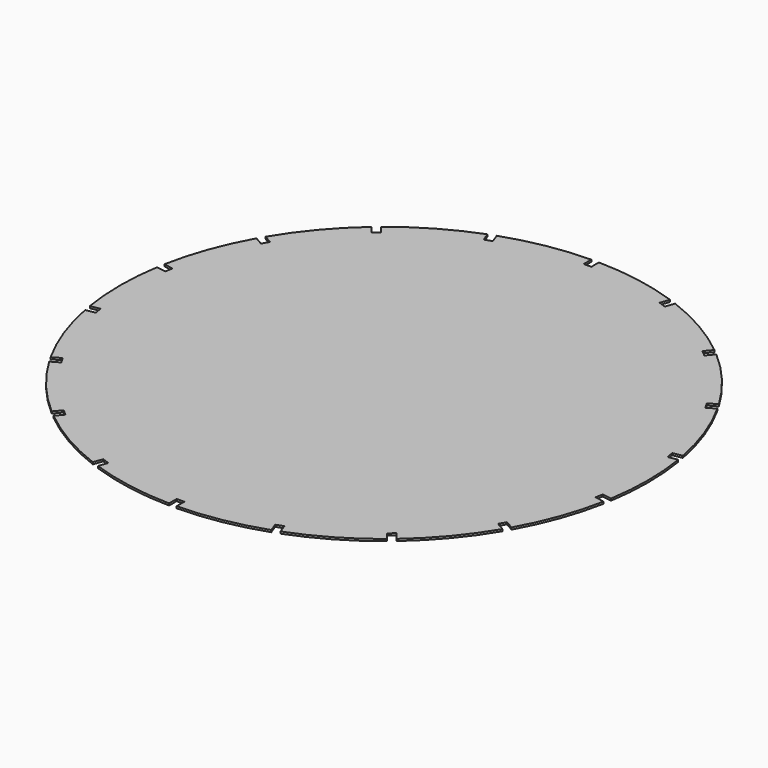
from build123d import *

# Parameters (mm, degrees)
F1_DEPTH = 3


with BuildPart() as f1:
    # F0 (on Top) → F1 (new body)
    with BuildSketch(Plane.XY):
        with BuildLine():
            Line((-5.75, 385.5), (-5.75, 399.95867))
            ThreePointArc((-5.75, 399.95867), (-69.459271, 393.923101), (-131.390689, 377.804826))
            Line((-131.390689, 377.804826), (-126.445533, 364.218121))
            Line((-126.445533, 364.218121), (-137.251998, 360.284889))
            Line((-137.251998, 360.284889), (-142.197154, 373.871595))
            ThreePointArc((-142.197154, 373.871595), (-200, 346.410162), (-252.683722, 310.082145))
            Line((-252.683722, 310.082145), (-243.389868, 299.006162))
            Line((-243.389868, 299.006162), (-252.199379, 291.614104))
            Line((-252.199379, 291.614104), (-261.493233, 302.690088))
            ThreePointArc((-261.493233, 302.690088), (-306.417777, 257.115044), (-343.499368, 204.958981))
            Line((-343.499368, 204.958981), (-330.977793, 197.729646))
            Line((-330.977793, 197.729646), (-336.727793, 187.770354))
            Line((-336.727793, 187.770354), (-349.249368, 194.999689))
            ThreePointArc((-349.249368, 194.999689), (-375.877048, 136.808057), (-392.883922, 75.114739))
            Line((-392.883922, 75.114739), (-378.644912, 72.604017))
            Line((-378.644912, 72.604017), (-380.641866, 61.278728))
            Line((-380.641866, 61.278728), (-394.880876, 63.78945))
            ThreePointArc((-394.880876, 63.78945), (-400, 0), (-394.880876, -63.78945))
            Line((-394.880876, -63.78945), (-380.641866, -61.278728))
            Line((-380.641866, -61.278728), (-378.644912, -72.604017))
            Line((-378.644912, -72.604017), (-392.883922, -75.114739))
            ThreePointArc((-392.883922, -75.114739), (-375.877048, -136.808057), (-349.249368, -194.999689))
            Line((-349.249368, -194.999689), (-336.727793, -187.770354))
            Line((-336.727793, -187.770354), (-330.977793, -197.729646))
            Line((-330.977793, -197.729646), (-343.499368, -204.958981))
            ThreePointArc((-343.499368, -204.958981), (-306.417777, -257.115044), (-261.493233, -302.690088))
            Line((-261.493233, -302.690088), (-252.199379, -291.614104))
            Line((-252.199379, -291.614104), (-243.389868, -299.006162))
            Line((-243.389868, -299.006162), (-252.683722, -310.082145))
            ThreePointArc((-252.683722, -310.082145), (-200, -346.410162), (-142.197154, -373.871595))
            Line((-142.197154, -373.871595), (-137.251998, -360.284889))
            Line((-137.251998, -360.284889), (-126.445533, -364.218121))
            Line((-126.445533, -364.218121), (-131.390689, -377.804826))
            ThreePointArc((-131.390689, -377.804826), (-69.459271, -393.923101), (-5.75, -399.95867))
            Line((-5.75, -399.95867), (-5.75, -385.5))
            Line((-5.75, -385.5), (5.75, -385.5))
            Line((5.75, -385.5), (5.75, -399.95867))
            ThreePointArc((5.75, -399.95867), (69.459271, -393.923101), (131.390689, -377.804826))
            Line((131.390689, -377.804826), (126.445533, -364.218121))
            Line((126.445533, -364.218121), (137.251998, -360.284889))
            Line((137.251998, -360.284889), (142.197154, -373.871595))
            ThreePointArc((142.197154, -373.871595), (200, -346.410162), (252.683722, -310.082145))
            Line((252.683722, -310.082145), (243.389868, -299.006162))
            Line((243.389868, -299.006162), (252.199379, -291.614104))
            Line((252.199379, -291.614104), (261.493233, -302.690088))
            ThreePointArc((261.493233, -302.690088), (306.417777, -257.115044), (343.499368, -204.958981))
            Line((343.499368, -204.958981), (330.977793, -197.729646))
            Line((330.977793, -197.729646), (336.727793, -187.770354))
            Line((336.727793, -187.770354), (349.249368, -194.999689))
            ThreePointArc((349.249368, -194.999689), (375.877048, -136.808057), (392.883922, -75.114739))
            Line((392.883922, -75.114739), (378.644912, -72.604017))
            Line((378.644912, -72.604017), (380.641866, -61.278728))
            Line((380.641866, -61.278728), (394.880876, -63.78945))
            ThreePointArc((394.880876, -63.78945), (400, 0), (394.880876, 63.78945))
            Line((394.880876, 63.78945), (380.641866, 61.278728))
            Line((380.641866, 61.278728), (378.644912, 72.604017))
            Line((378.644912, 72.604017), (392.883922, 75.114739))
            ThreePointArc((392.883922, 75.114739), (375.877048, 136.808057), (349.249368, 194.999689))
            Line((349.249368, 194.999689), (336.727793, 187.770354))
            Line((336.727793, 187.770354), (330.977793, 197.729646))
            Line((330.977793, 197.729646), (343.499368, 204.958981))
            ThreePointArc((343.499368, 204.958981), (306.417777, 257.115044), (261.493233, 302.690088))
            Line((261.493233, 302.690088), (252.199379, 291.614104))
            Line((252.199379, 291.614104), (243.389868, 299.006162))
            Line((243.389868, 299.006162), (252.683722, 310.082145))
            ThreePointArc((252.683722, 310.082145), (200, 346.410162), (142.197154, 373.871595))
            Line((142.197154, 373.871595), (137.251998, 360.284889))
            Line((137.251998, 360.284889), (126.445533, 364.218121))
            Line((126.445533, 364.218121), (131.390689, 377.804826))
            ThreePointArc((131.390689, 377.804826), (69.459271, 393.923101), (5.75, 399.95867))
            Line((5.75, 399.95867), (5.75, 385.5))
            Line((5.75, 385.5), (-5.75, 385.5))
        make_face()
    extrude(amount=F1_DEPTH)


solid = f1.part
